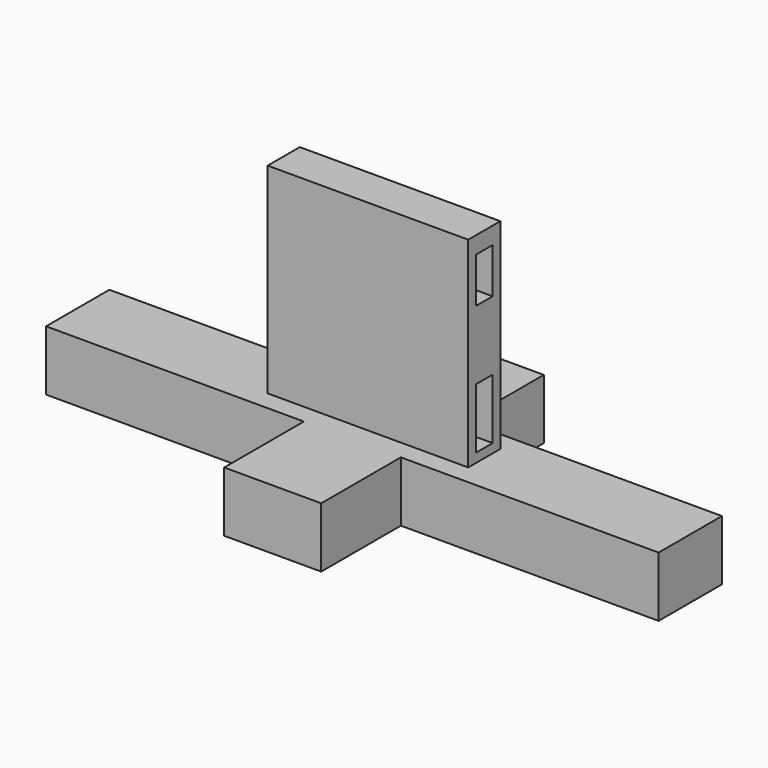
from build123d import *

# Parameters (mm, degrees)
F0_W     = 64.2762212083
F0_H     = 19.7247266769
F0_W_2   = 24.1831187159
F0_H_2   = 24.8195268214
F1_DEPTH = 15
F2_W     = 50
F2_H     = 10
F3_DEPTH = 50
F4_W     = 2.6052840985
F4_H     = 15.0249563158
F4_W_2   = 2.6046917774
F4_H_2   = 11.2548321486
F5_DEPTH = 100


with BuildPart() as f1:
    # F0 (on Top) → F1 (new body)
    with BuildSketch(Plane.XY):
        with Locations((44.2296699621, 0)):
            Rectangle(F0_W, F0_H)
        Rectangle(F0_W_2, F0_H)
        with Locations((0, 22.2721267492)):
            Rectangle(F0_W_2, F0_H_2)
        with Locations((-44.2296699621, 0)):
            Rectangle(F0_W, F0_H)
        with Locations((0, -22.2721267492)):
            Rectangle(F0_W_2, F0_H_2)
    extrude(amount=F1_DEPTH)

    # F2 (on face) → F3 (join)
    with BuildSketch(Plane.XY.offset(15)):
        Rectangle(F2_W, F2_H)
    extrude(amount=F3_DEPTH)

    # F4 (on face) → F5 (cut)
    with BuildSketch(Plane.YZ.offset(25)):
        with Locations((1.3026420493, 24.7752834111)):
            Rectangle(F4_W, F4_H)
        with Locations((-1.3026420493, 24.7752834111)):
            Rectangle(F4_W, F4_H)
        with Locations((-1.3023458887, 55.1106519997)):
            Rectangle(F4_W_2, F4_H_2)
        with Locations((1.3023458887, 55.1106519997)):
            Rectangle(F4_W_2, F4_H_2)
    extrude(amount=-F5_DEPTH, mode=Mode.SUBTRACT)


solid = f1.part
